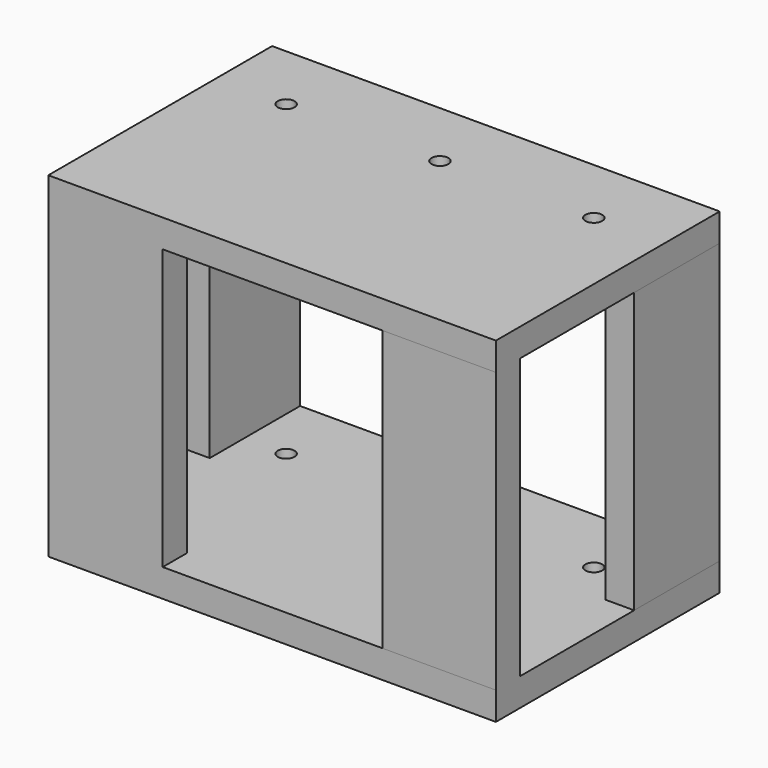
from build123d import *

# Parameters (mm, degrees)
F0_W      = 160
F0_H      = 100
F1_DEPTH  = 10
F2_W      = 40.895734
F2_H      = 10.845482
F3_DEPTH  = 100
F4_W      = 40.6105
F4_H      = 10.878049
F5_DEPTH  = 100
F6_W      = 10.316573
F6_H      = 38.213448
F7_DEPTH  = 100
F8_W      = 10.004953
F8_H      = 40.368644
F9_DEPTH  = 100
F10_W     = 160
F10_H     = 100
F11_DEPTH = 10
F13_D     = 6


with BuildPart() as f1:
    # F0 (on Top) → F1 (new body)
    with BuildSketch(Plane.XY):
        with Locations((24.380464, -13.529802)):
            Rectangle(F0_W, F0_H)
        with Locations((24.380464, -13.529802)):
            Rectangle(F0_W, F0_H)
    extrude(amount=F1_DEPTH)

    # F2 (on face) → F3 (join)
    with BuildSketch(Plane.XY.offset(10)):
        with Locations((-35.171669, -58.107061)):
            Rectangle(F2_W, F2_H)
    extrude(amount=F3_DEPTH)

    # F4 (on face) → F5 (join)
    with BuildSketch(Plane.XY.offset(10)):
        with Locations((84.075214, -58.090778)):
            Rectangle(F4_W, F4_H)
    extrude(amount=F5_DEPTH)

    # F6 (on face) → F7 (join)
    with BuildSketch(Plane.XY.offset(10)):
        with Locations((99.222177, 17.363474)):
            Rectangle(F6_W, F6_H)
    extrude(amount=F7_DEPTH)

    # F8 (on face) → F9 (join)
    with BuildSketch(Plane.XY.offset(10)):
        with Locations((-50.617059, 16.285876)):
            Rectangle(F8_W, F8_H)
    extrude(amount=F9_DEPTH)

    # F10 (on face) → F11 (join)
    with BuildSketch(Plane.XY.offset(110)):
        with Locations((24.380464, -13.529802)):
            Rectangle(F10_W, F10_H)
    extrude(amount=F11_DEPTH)

    # F13 (through all)
    with Locations(Plane.XY.offset(120)):
        with Locations((79.380464, 11.470198), (24.380464, 11.470198), (-30.619536, 11.470198)):
            Hole(F13_D / 2)


solid = f1.part
